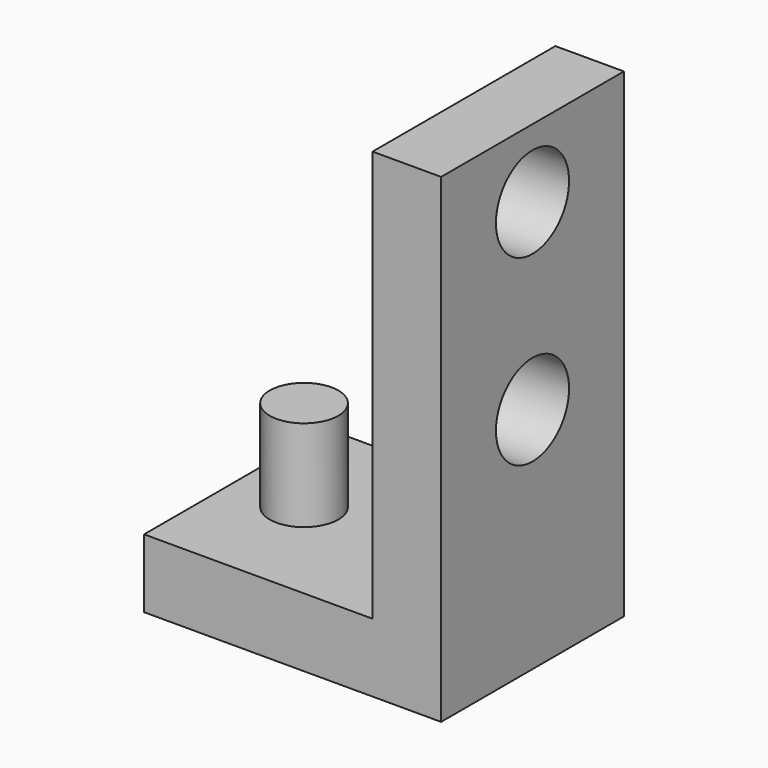
from build123d import *

# Parameters (mm, degrees)
F1_DEPTH = 10
F2_R     = 2
F3_DEPTH = 25
F4_R     = 1.5
F5_DEPTH = 4


with BuildPart() as f1:
    # F0 (on Front) → F1 (new body)
    with BuildSketch(Plane.XZ):
        Polygon((-13, 0), (0, 0), (0, 21), (-3, 21), (-3, 3), (-13, 3), align=None)
    extrude(amount=F1_DEPTH)

    # F2 (on face) → F3 (cut)
    with BuildSketch(Plane(origin=(-3, 0, 0), x_dir=(0, -1, 0), z_dir=(-1, 0, 0))):
        with Locations((5, 18)):
            Circle(F2_R)
        with Locations((5, 10)):
            Circle(F2_R)
    extrude(amount=-F3_DEPTH, mode=Mode.SUBTRACT)

    # F4 (on face) → F5 (join)
    with BuildSketch(Plane.XY.offset(3)):
        with Locations((-10, -5)):
            Circle(F4_R)
    extrude(amount=F5_DEPTH)


solid = f1.part
